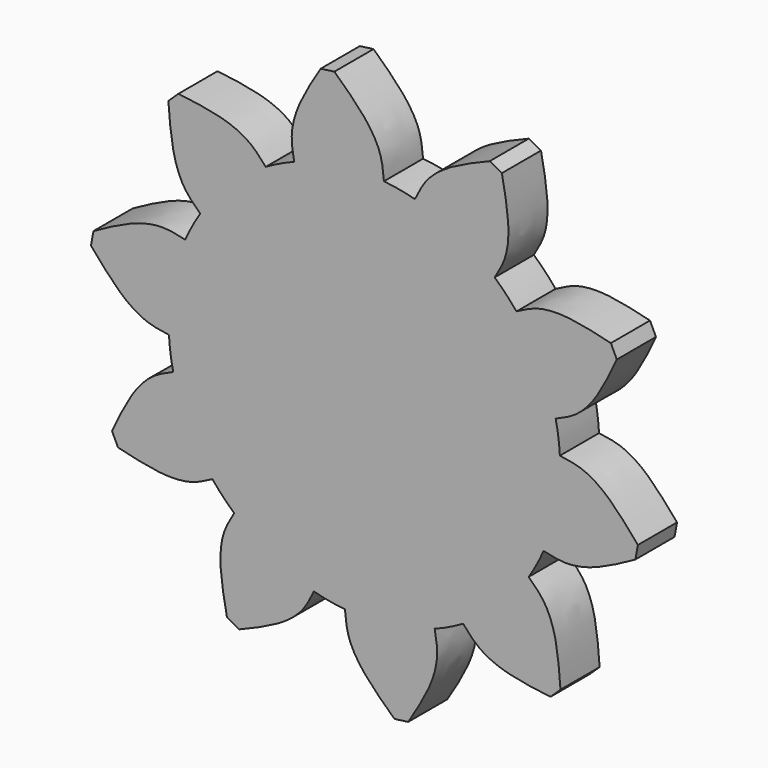
from build123d import *

# Parameters (mm, degrees)
F1_DEPTH = 12.7
F2_DEPTH = 12.7
F4_COUNT = 10


with BuildPart() as f1:
    # F0 (on Front) → F1 (new body)
    with BuildSketch(Plane.XZ):
        with BuildLine():
            ThreePointArc((-18.2398537228, 47.4125272072), (-28.7580895652, -41.8761541281), (50.8, 0))
            ThreePointArc((50.8, 0), (37.6668973466, 34.0858452188), (5.0580769968, 50.5475603476))
            ThreePointArc((5.0580769968, 50.5475603476), (-6.7747263864, 50.3462320575), (-18.2398537228, 47.4125272072))
        make_face()
    extrude(amount=F1_DEPTH)

    # F0 (on Front) → F2 (join, through all)
    with BuildSketch(Plane.XZ):
        with BuildLine():
            ThreePointArc((-18.2398537228, 47.4125272072), (-6.7747263864, 50.3462320575), (5.0580769968, 50.5475603476))
            add(Edge.make_bspline(
                [(5.0580769968, 50.5475603476), (4.8787158838, 52.5914812168), (4.4897162166, 56.9263105927), (0.1861426341, 63.9548196192), (-4.9903423699, 68.7921425636), (-7.7980468665, 71.4175781238)],
                knots=[0, 0, 0, 0, 0.2880613085, 0.6141610371, 1, 1, 1, 1], degree=3))
            Line((-7.7980468665, 71.4175781238), (-11.3577849389, 70.9385700538))
            add(Edge.make_bspline(
                [(-18.2398537228, 47.4125272072), (-18.6071605924, 49.4311575825), (-19.3778623389, 53.7146240849), (-17.0852769639, 61.6307302623), (-13.371613766, 67.6643358111), (-11.3577849389, 70.9385700538)],
                knots=[0, 0, 0, 0, 0.2880613085, 0.6141610371, 1, 1, 1, 1], degree=3))
        make_face()
    extrude(amount=F2_DEPTH)

    # F4: F1 ×10 about axis
    f4_axis = Axis((0, -10.3239128366, 0), (0, -1, 0))


with BuildPart() as f1_1:
    add(f1.part)
    for i in range(1, F4_COUNT):
        add(f1.part.rotate(f4_axis, i * 360 / F4_COUNT))


solid = f1_1.part
